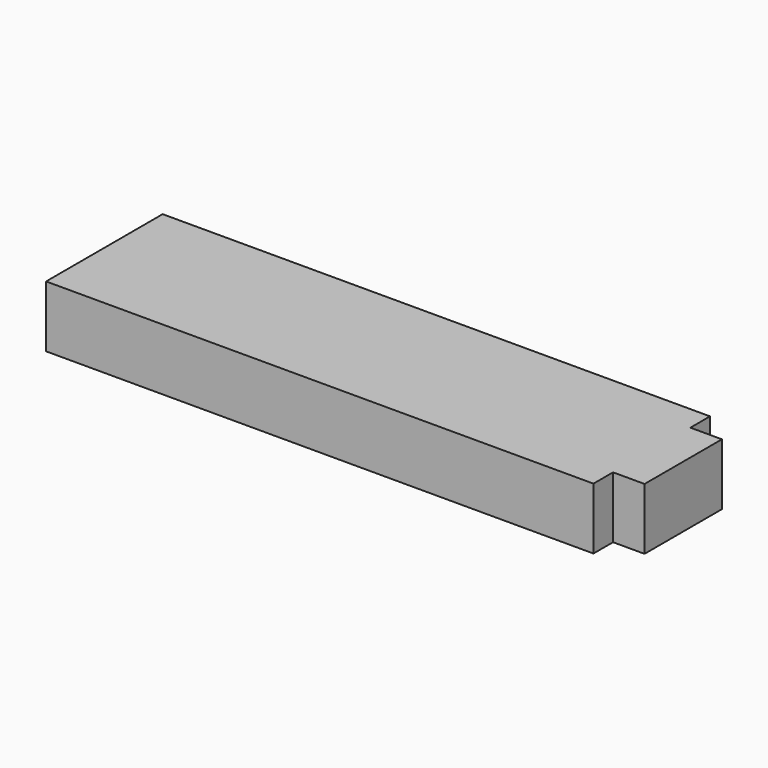
from build123d import *

# Parameters (mm, degrees)
F0_W     = 67.24
F0_H     = 17.9
F1_DEPTH = 3.78
F2_W     = 3.87
F2_H     = 11.88
F3_DEPTH = 7.56


with BuildPart() as f1:
    # F0 (on Top) → F1 (new body, symmetric)
    with BuildSketch(Plane.XY):
        Rectangle(F0_W, F0_H)
    extrude(amount=F1_DEPTH, both=True)

    # F2 (on face) → F3 (join, through all)
    with BuildSketch(Plane.XY.offset(3.78)):
        with Locations((35.555, 0)):
            Rectangle(F2_W, F2_H)
    extrude(amount=-F3_DEPTH)


solid = f1.part
